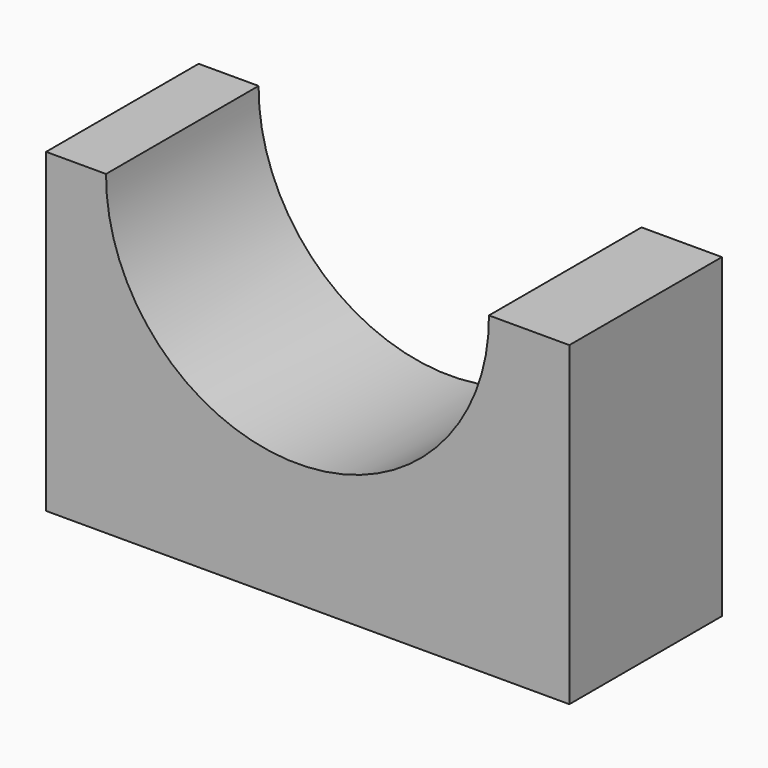
from build123d import *

# Parameters (mm, degrees)
F1_DEPTH = 20


with BuildPart() as f1:
    # F0 (on Front) → F1 (new body, symmetric)
    with BuildSketch(Plane.XZ):
        with BuildLine():
            Line((-39.589383, 40.446915), (-52.166518, 40.446915))
            Line((-52.166518, 40.446915), (-52.166518, -25.868876))
            Line((-52.166518, -25.868876), (57.600901, -25.868876))
            Line((57.600901, -25.868876), (57.600901, 40.446915))
            Line((57.600901, 40.446915), (40.73276, 40.446915))
            ThreePointArc((40.73276, 40.446915), (0.571689, -0.004069), (-39.589383, 40.446915))
        make_face()
    extrude(amount=F1_DEPTH, both=True)


solid = f1.part
